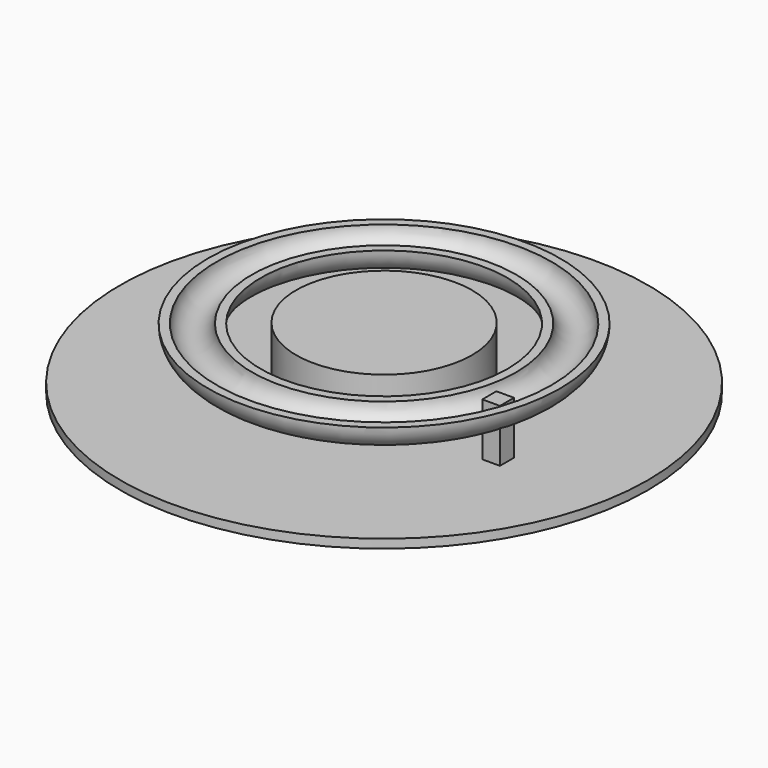
from build123d import *

# Parameters (mm, degrees)
F0_R     = 38.1
F1_DEPTH = 1.27
F2_W     = 2.54
F2_H     = 2.54
F2_R     = 12.7
F3_DEPTH = 7.62


with BuildPart() as f1:
    # F0 (on Top) → F1 (new body)
    with BuildSketch(Plane.XY):
        Circle(F0_R)
    extrude(amount=F1_DEPTH)

    # F2 (on face) → F3 (join)
    with BuildSketch(Plane.XY.offset(1.27)):
        with Locations((21.616246, -6.438158)):
            Rectangle(F2_W, F2_H)
        Circle(F2_R)
    extrude(amount=F3_DEPTH)

    # F4 (on Front) → F5 (revolve)
    with BuildSketch(Plane.XZ):
        with BuildLine():
            Line((19.07809, 8.793222), (17.807475, 8.793222))
            ThreePointArc((17.807475, 8.793222), (21.616246, 5.08), (25.425016, 8.793222))
            Line((25.425016, 8.793222), (24.154401, 8.793222))
            ThreePointArc((24.154401, 8.793222), (21.616246, 6.35), (19.07809, 8.793222))
        make_face()
    revolve(axis=Axis((0, 0, 8.89), (0, 0, 1)))


solid = f1.part
